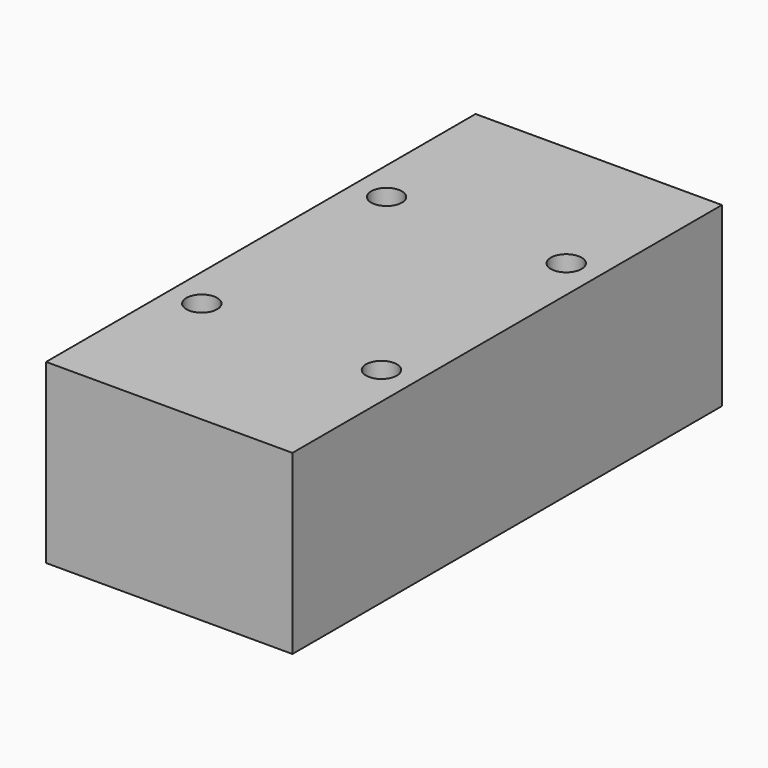
from build123d import *

# Parameters (mm, degrees)
F0_W     = 48
F0_H     = 34.5
F1_DEPTH = 104.6
F2_R     = 3
F3_DEPTH = 10


with BuildPart() as f1:
    # F0 (on Front) → F1 (new body)
    with BuildSketch(Plane.XZ):
        Rectangle(F0_W, F0_H)
    extrude(amount=-F1_DEPTH)

    # F2 (on face) → F3 (cut)
    with BuildSketch(Plane.XY.offset(17.25)):
        with Locations((-17.5, 74.8)):
            Circle(F2_R)
        with Locations((-17.5, 29.8)):
            Circle(F2_R)
        with Locations((17.5, 29.8)):
            Circle(F2_R)
        with Locations((17.5, 74.8)):
            Circle(F2_R)
    extrude(amount=-F3_DEPTH, mode=Mode.SUBTRACT)


solid = f1.part
